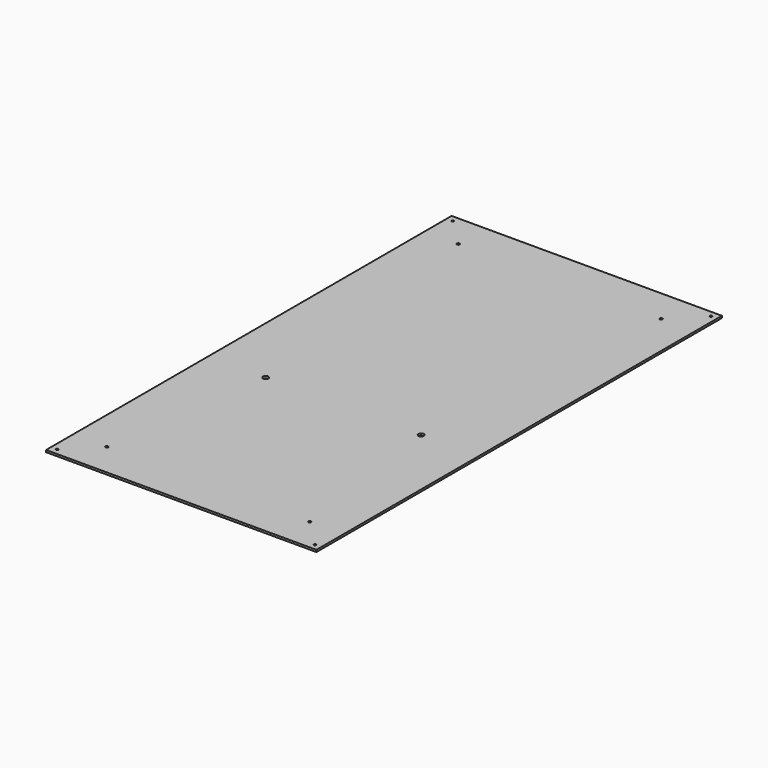
from build123d import *

# Parameters (mm, degrees)
F0_W     = 400
F0_H     = 750
F0_R     = 1.7
F0_R_2   = 2
F0_R_3   = 4
F1_DEPTH = 3


with BuildPart() as f1:
    # F0 (on Top) → F1 (new body)
    with BuildSketch(Plane.XY):
        Rectangle(F0_W, F0_H)
        with Locations((-191, -366)):
            Circle(F0_R, mode=Mode.SUBTRACT)
        with Locations((-150, -325)):
            Circle(F0_R_2, mode=Mode.SUBTRACT)
        with Locations((-115, -75)):
            Circle(F0_R_3, mode=Mode.SUBTRACT)
        with Locations((191, -366)):
            Circle(F0_R, mode=Mode.SUBTRACT)
        with Locations((150, -325)):
            Circle(F0_R_2, mode=Mode.SUBTRACT)
        with Locations((115, -75)):
            Circle(F0_R_3, mode=Mode.SUBTRACT)
        with Locations((-191, 366)):
            Circle(F0_R, mode=Mode.SUBTRACT)
        with Locations((-150, 325)):
            Circle(F0_R_2, mode=Mode.SUBTRACT)
        with Locations((150, 325)):
            Circle(F0_R_2, mode=Mode.SUBTRACT)
        with Locations((191, 366)):
            Circle(F0_R, mode=Mode.SUBTRACT)
    extrude(amount=F1_DEPTH)


solid = f1.part
